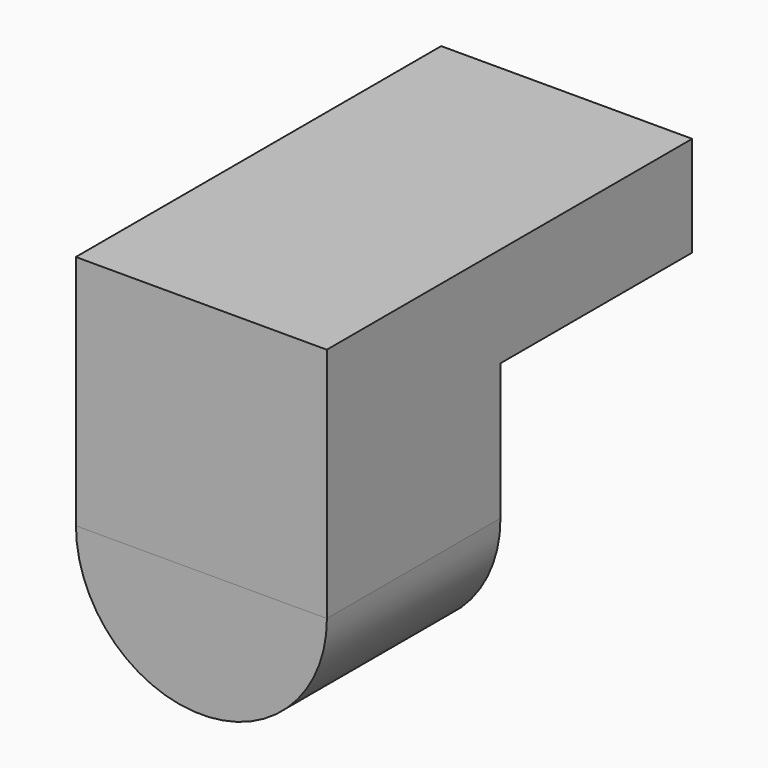
from build123d import *

# Parameters (mm, degrees)
F0_W     = 41.8783635832
F0_H     = 39.4817627966
F1_DEPTH = 76.2
F3_DEPTH = 76.2
F5_DEPTH = 36.195
F7_DEPTH = 76.2


with BuildPart() as f1:
    # F0 (on Front) → F1 (new body)
    with BuildSketch(Plane.XZ):
        with Locations((-28.6883309018, 41.6107345372)):
            Rectangle(F0_W, F0_H)
    extrude(amount=F1_DEPTH)

    # F2 (on face) → F3 (cut)
    with BuildSketch(Plane.YZ.offset(-7.7491491102)):
        Polygon((0, 21.8698531389), (-39.980173111, 44.6278005838), (-39.980173111, 21.8698531389), align=None)
    extrude(amount=-F3_DEPTH, mode=Mode.SUBTRACT)

    # F4 (on face) → F5 (join)
    with BuildSketch(Plane(origin=(0, -39.980173111, 0), x_dir=(-1, 0, 0), z_dir=(0, 1, 0))):
        with BuildLine():
            Line((49.6275126934, 21.8698531389), (7.7491491102, 21.8698531389))
            ThreePointArc((7.7491491102, 21.8698531389), (28.6883309018, 0.9306713473), (49.6275126934, 21.8698531389))
        make_face()
    extrude(amount=-F5_DEPTH)

    # F6 (on face) → F7 (cut)
    with BuildSketch(Plane.YZ.offset(-7.7491491102)):
        Polygon((0, 44.6278005838), (-39.980173111, 44.6278005838), (0, 21.8698531389), align=None)
    extrude(amount=-F7_DEPTH, mode=Mode.SUBTRACT)


solid = f1.part
